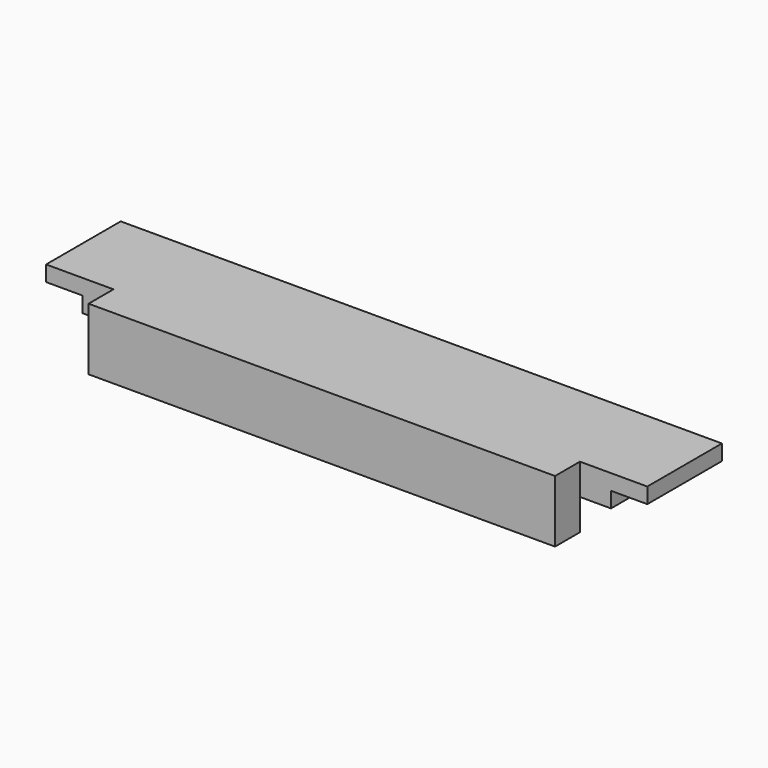
from build123d import *

# Parameters (mm, degrees)
F0_W     = 736.6
F0_H     = 38.1
F1_DEPTH = 76.2
F2_W     = 44.45
F2_H     = 19.05
F3_DEPTH = 152.401
F4_W     = 44.45
F4_H     = 38.1
F4_W_2   = 38.1
F5_DEPTH = 38.101
F6_W     = 38.1
F6_H     = 38.1
F7_DEPTH = 571.5


with BuildPart() as f1:
    # F0 (on Front) → F1 (new body, symmetric)
    with BuildSketch(Plane.XZ):
        Rectangle(F0_W, F0_H)
    extrude(amount=F1_DEPTH, both=True)

    # F2 (on face) → F3 (cut, through all)
    with BuildSketch(Plane.XZ.offset(76.2)):
        with Locations((-346.075, -9.525)):
            Rectangle(F2_W, F2_H)
        with Locations((346.075, -9.525)):
            Rectangle(F2_W, F2_H)
    extrude(amount=-F3_DEPTH, mode=Mode.SUBTRACT)

    # F4 (on face) → F5 (cut, through all)
    with BuildSketch(Plane(origin=(0, 0, -19.05), x_dir=(1, 0, 0), z_dir=(0, 0, -1))):
        with Locations((-346.075, 57.15)):
            Rectangle(F4_W, F4_H)
        with Locations((-304.8, 57.15)):
            Rectangle(F4_W_2, F4_H)
        with Locations((304.8, 57.15)):
            Rectangle(F4_W_2, F4_H)
        with Locations((346.075, 57.15)):
            Rectangle(F4_W, F4_H)
    extrude(amount=-F5_DEPTH, mode=Mode.SUBTRACT)

    # F6 (on face) → F7 (join, through all)
    with BuildSketch(Plane(origin=(-285.75, 0, 0), x_dir=(0, -1, 0), z_dir=(-1, 0, 0))):
        with Locations((57.15, -38.1)):
            Rectangle(F6_W, F6_H)
    extrude(amount=-F7_DEPTH)


solid = f1.part
